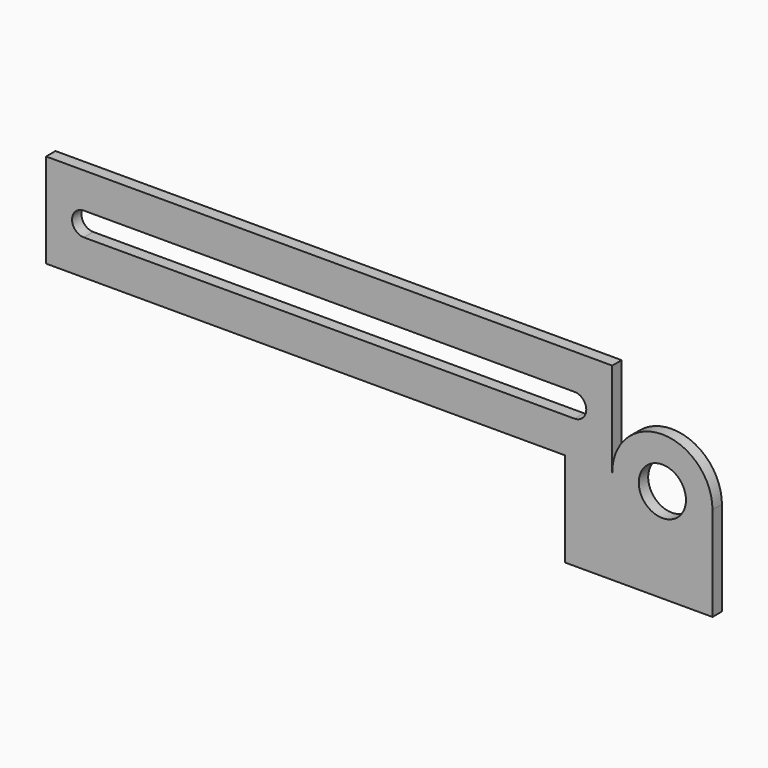
from build123d import *

# Parameters (mm, degrees)
F0_R     = 3.175
F1_DEPTH = 1.5875


with BuildPart() as f1:
    # F0 (on Front) → F1 (new body)
    with BuildSketch(Plane.XZ):
        with BuildLine():
            Line((-13.096875, 0), (6.746875, 0))
            Line((6.746875, 0), (6.746875, 12.7))
            ThreePointArc((6.746875, 12.7), (0, 19.446875), (-6.746875, 12.7))
            Line((-6.746875, 12.7), (-6.746875, 25.4))
            Line((-6.746875, 25.4), (-82.946875, 25.4))
            Line((-82.946875, 25.4), (-82.946875, 12.7))
            Line((-82.946875, 12.7), (-13.096875, 12.7))
            Line((-13.096875, 12.7), (-13.096875, 0))
        make_face()
        with Locations((0, 12.7)):
            Circle(F0_R, mode=Mode.SUBTRACT)
        with BuildLine():
            ThreePointArc((-77.866875, 17.4625), (-79.454375, 19.05), (-77.866875, 20.6375))
            Line((-77.866875, 20.6375), (-11.826875, 20.6375))
            ThreePointArc((-11.826875, 20.6375), (-10.239375, 19.05), (-11.826875, 17.4625))
            Line((-11.826875, 17.4625), (-77.866875, 17.4625))
        make_face(mode=Mode.SUBTRACT)
    extrude(amount=F1_DEPTH)


solid = f1.part
